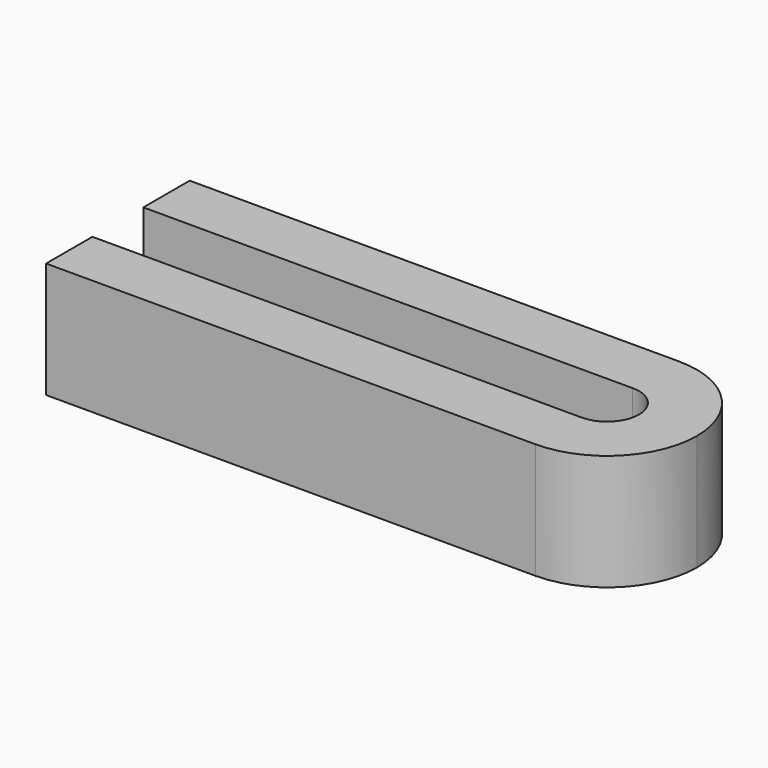
from build123d import *

# Parameters (mm, degrees)
F1_DEPTH = 20


with BuildPart() as f1:
    # F0 (on Top) → F1 (new body)
    with BuildSketch(Plane.XY):
        with BuildLine():
            Line((0, 10), (0, 0))
            Line((0, 0), (84.5, 0))
            ThreePointArc((84.5, 0), (95.460155, 4.539845), (100, 15.5))
            ThreePointArc((100, 15.5), (95.460155, 26.460155), (84.5, 31))
            Line((84.5, 31), (0, 31))
            Line((0, 31), (0, 21))
            Line((0, 21), (84.5, 21))
            ThreePointArc((84.5, 21), (88.389087, 19.389087), (90, 15.5))
            ThreePointArc((90, 15.5), (88.389087, 11.610913), (84.5, 10))
            Line((84.5, 10), (0, 10))
        make_face()
    extrude(amount=F1_DEPTH)


solid = f1.part
